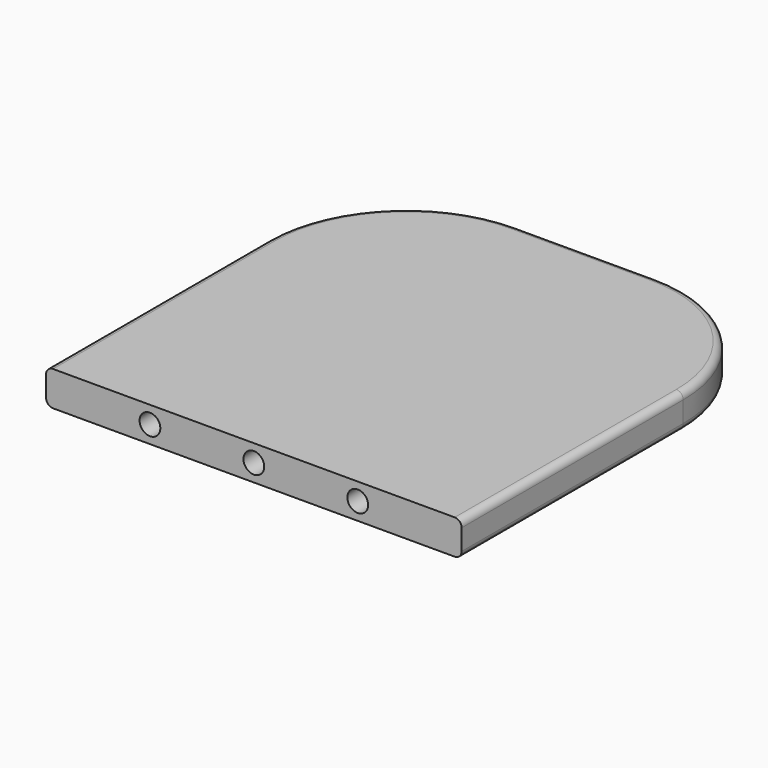
from build123d import *

# Parameters (mm, degrees)
F0_W     = 152.4
F0_H     = 152.4
F1_DEPTH = 12.7
F2_R     = 50.8
F4_D     = 7.62
F4_DEPTH = 15.24
F4_TIP   = 2.2892789585
F5_R     = 2.54


with BuildPart() as f1:
    # F0 (on Top) → F1 (new body)
    with BuildSketch(Plane.XY):
        with Locations((1.9777435809, -47.0201134945)):
            Rectangle(F0_W, F0_H)
    extrude(amount=F1_DEPTH)

    # F2
    f2_edges = [f1.edges().sort_by_distance(p)[0] for p in [
        (-74.222256, 29.179887, 6.35),
        (78.177744, 29.179887, 6.35),
    ]]
    fillet(f2_edges, radius=F2_R)

    # F4
    with Locations(Plane.XZ.offset(123.2201134945)):
        with Locations((40.0777435809, 6.35), (1.9777435809, 6.35), (-36.1222564191, 6.35)):
            Hole(F4_D / 2, depth=F4_DEPTH)
            with Locations((0, 0, -(F4_DEPTH + F4_TIP / 2))):  # 118° drill point
                Cone(0, F4_D / 2, F4_TIP, mode=Mode.SUBTRACT)

    # F5
    f5_edges = [f1.edges().sort_by_distance(p)[0] for p in [
        (78.177744, -72.420113, 12.7),
        (78.177744, -72.420113, 0),
    ]]
    fillet(f5_edges, radius=F5_R)


solid = f1.part
